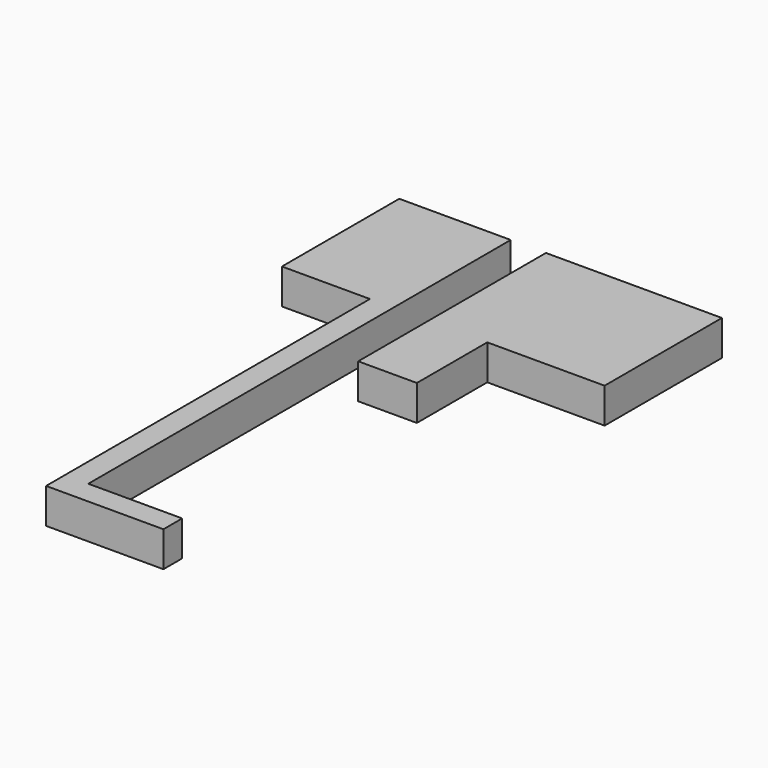
from build123d import *

# Parameters (mm, degrees)
F1_DEPTH = 1.2


with BuildPart() as f1:
    # F0 (on Top) → F1 (new body)
    with BuildSketch(Plane.XY):
        Polygon((-3, -2.5), (-2.2, -2.5), (-2.2, 12.5), (-2.2, 15.5), (-3, 15.5), (-6, 15.5), (-6, 12.5), (-6, 10.5), (-3, 10.5), align=None)
        Polygon((-3, -2.5), (-2.2, -2.5), (-2.2, 12.5), (-2.2, 15.5), (-3, 15.5), (-6, 15.5), (-6, 12.5), (-6, 10.5), (-3, 10.5), align=None)
        Polygon((1, -3.3), (1, -2.5), (-1, -2.5), (-2.2, -2.5), (-3, -2.5), (-3, -3.3), align=None)
        Polygon((-1, 7.5), (1, 7.5), (1, 10.5), (5, 10.5), (5, 12.5), (5, 15.5), (1, 15.5), (0, 15.5), (-1, 15.5), (-1, 12.5), align=None)
        Polygon((-1, 7.5), (1, 7.5), (1, 10.5), (5, 10.5), (5, 12.5), (5, 15.5), (1, 15.5), (0, 15.5), (-1, 15.5), (-1, 12.5), align=None)
        Polygon((-1, 7.5), (1, 7.5), (1, 10.5), (5, 10.5), (5, 12.5), (5, 15.5), (1, 15.5), (0, 15.5), (-1, 15.5), (-1, 12.5), align=None)
    extrude(amount=F1_DEPTH)


solid = f1.part
